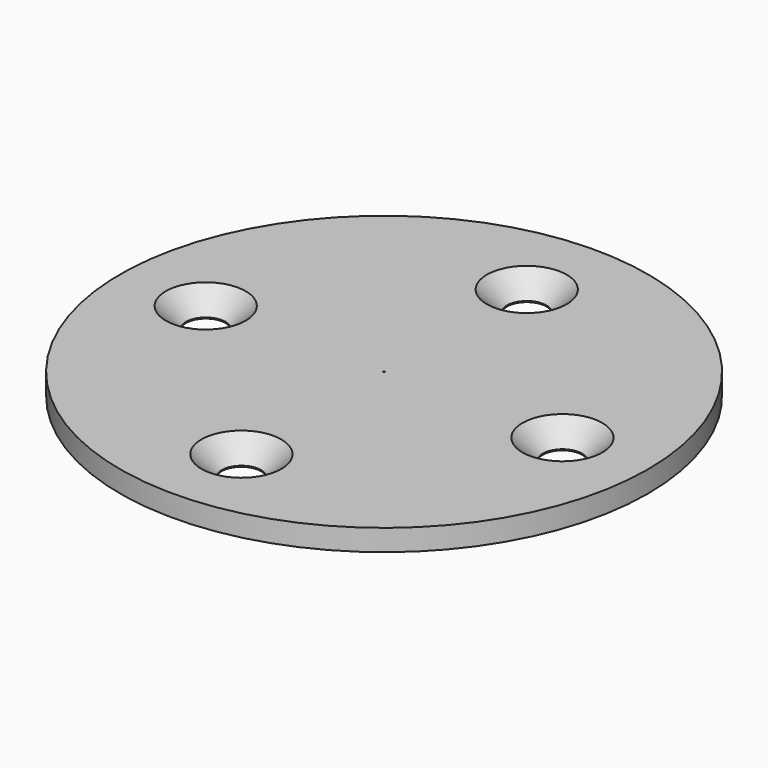
from build123d import *

# Parameters (mm, degrees)
F0_R           = 37
F1_DEPTH       = 3
F3_D           = 5.5
F3_DEPTH       = 15
F3_CSINK_D     = 11.2
F3_CSINK_ANGLE = 90
F3_TIP         = 1.6523667023
F5_D           = 0.2


with BuildPart() as f1:
    # F0 (on Top) → F1 (new body)
    with BuildSketch(Plane.XY):
        Circle(F0_R)
    extrude(amount=F1_DEPTH)

    # F3
    with Locations(Plane.XY.offset(3)):
        with Locations((0, 25), (-25, 0), (0, -25), (25, 0)):
            CounterSinkHole(F3_D / 2, F3_CSINK_D / 2, depth=F3_DEPTH, counter_sink_angle=F3_CSINK_ANGLE)
            with Locations((0, 0, -(F3_DEPTH + F3_TIP / 2))):  # 118° drill point
                Cone(0, F3_D / 2, F3_TIP, mode=Mode.SUBTRACT)

    # F5 (through all)
    with Locations(Plane.XY.offset(3)):
        with Locations((0, 0)):
            Hole(F5_D / 2)


solid = f1.part
